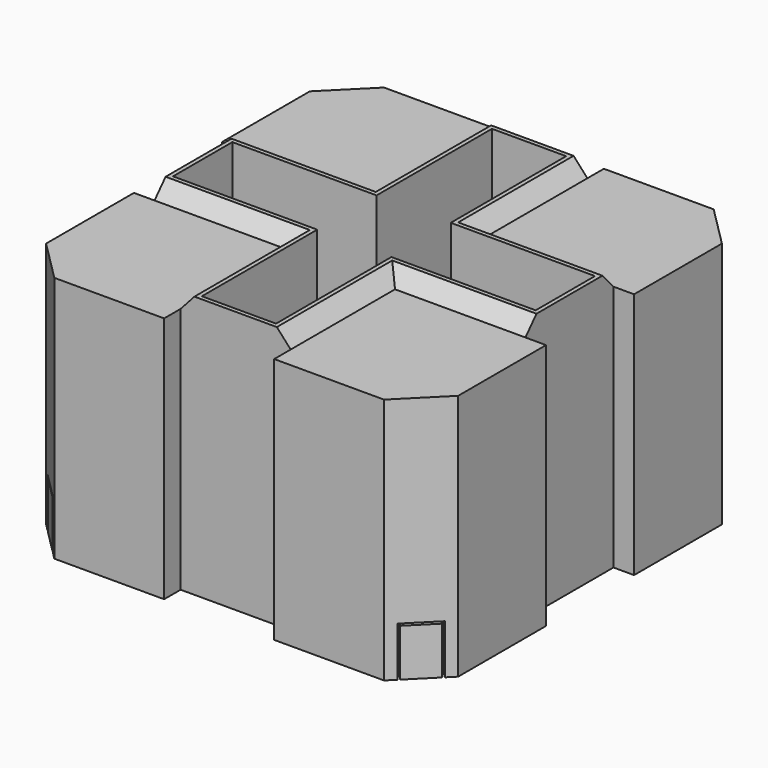
from build123d import *

# Parameters (mm, degrees)
F1_DEPTH  = 50
F3_DEPTH  = 50
F5_DEPTH  = 5
F7_DEPTH  = 5
F9_DEPTH  = 5
F11_DEPTH = 5
F12_SIZE  = 10
F13_W     = 9
F13_H     = 12
F14_DEPTH = 2
F15_W     = 8
F15_H     = 11.5
F16_DEPTH = 2
F17_W     = 9
F17_H     = 12
F18_DEPTH = 2
F20_W     = 9
F20_H     = 12
F21_DEPTH = 2
F22_W     = 8
F22_H     = 11.5
F23_DEPTH = 2
F24_W     = 9
F24_H     = 12
F25_DEPTH = 2
F26_W     = 8
F26_H     = 11.5
F27_DEPTH = 2
F19_W     = 8
F19_H     = 11.5
F28_DEPTH = 2
F30_DEPTH = 50


with BuildPart() as f1:
    # F0 (on Front) → F1 (new body, symmetric)
    with BuildSketch(Plane.XZ):
        Polygon((-50, -30), (50, -30), (50, 30), (13.3536681533, 30), (10, 33.708491596), (0, 33.708491596), (-10, 33.708491596), (-13.3536681533, 30), (-50, 30), align=None)
    extrude(amount=F1_DEPTH, both=True)

    # F2 (on Right) → F3 (join, symmetric)
    with BuildSketch(Plane.YZ):
        Polygon((10, 33.708491596), (0, 33.708491596), (-10, 33.708491596), (-13.3536681533, 30), (-50, 30), (-50, -30), (0, -30), (50, -30), (50, 30), (13.3536681533, 30), align=None)
    extrude(amount=F3_DEPTH, both=True)

    # F4 (on face) → F5 (cut)
    with BuildSketch(Plane(origin=(-50, 0, 0), x_dir=(0, -1, 0), z_dir=(-1, 0, 0))):
        Polygon((10, 33.708491596), (-10, 33.708491596), (-13.3536681533, 30), (-13.3536681533, -30), (13.3536681533, -30), (13.3536681533, 30), align=None)
    extrude(amount=-F5_DEPTH, mode=Mode.SUBTRACT)

    # F6 (on face) → F7 (cut)
    with BuildSketch(Plane.XZ.offset(50)):
        Polygon((-10, 33.708491596), (-13.3536681533, 30), (-13.3536681533, -30), (13.3536681533, -30), (13.3536681533, 30), (10, 33.708491596), align=None)
    extrude(amount=-F7_DEPTH, mode=Mode.SUBTRACT)

    # F8 (on face) → F9 (cut)
    with BuildSketch(Plane.YZ.offset(50)):
        Polygon((-10, 33.708491596), (-13.3536681533, 30), (-13.3536681533, -30), (13.3536681533, -30), (13.3536681533, 30), (10, 33.708491596), align=None)
    extrude(amount=-F9_DEPTH, mode=Mode.SUBTRACT)

    # F10 (on face) → F11 (cut)
    with BuildSketch(Plane(origin=(0, 50, 0), x_dir=(-1, 0, 0), z_dir=(0, 1, 0))):
        Polygon((-10, 33.708491596), (-13.3536681533, 30), (-13.3536681533, -30), (13.3536681533, -30), (13.3536681533, 30), (10, 33.708491596), align=None)
    extrude(amount=-F11_DEPTH, mode=Mode.SUBTRACT)

    # F12
    f12_edges = [f1.edges().sort_by_distance(p)[0] for p in [
        (50, -50, 0),
        (50, 50, 0),
        (-50, 50, 0),
        (-50, -50, 0),
    ]]
    chamfer(f12_edges, length=F12_SIZE)

    # F13 (on face) → F14 (cut)
    with BuildSketch(Plane(origin=(-45, 45, 0), x_dir=(-0.7071067812, -0.7071067812, 0), z_dir=(-0.7071067812, 0.7071067812, 0))):
        with Locations((0.0210678119, -24)):
            Rectangle(F13_W, F13_H)
    extrude(amount=-F14_DEPTH, mode=Mode.SUBTRACT)

    # F15 (on face) → F16 (join)
    with BuildSketch(Plane(origin=(-43.5857864376, 43.5857864376, 0), x_dir=(-0.7071067812, -0.7071067812, 0), z_dir=(-0.7071067812, 0.7071067812, 0))):
        with Locations((0.0210678119, -24.25)):
            Rectangle(F15_W, F15_H)
    extrude(amount=F16_DEPTH)

    # F17 (on face) → F18 (cut)
    with BuildSketch(Plane(origin=(-45, -45, 0), x_dir=(0.7071067812, -0.7071067812, 0), z_dir=(-0.7071067812, -0.7071067812, 0))):
        with Locations((0.0210678119, -24)):
            Rectangle(F17_W, F17_H)
    extrude(amount=-F18_DEPTH, mode=Mode.SUBTRACT)

    # F20 (on face) → F21 (cut)
    with BuildSketch(Plane(origin=(45, -45, 0), x_dir=(0.7071067812, 0.7071067812, 0), z_dir=(0.7071067812, -0.7071067812, 0))):
        with Locations((0.0210678119, -24)):
            Rectangle(F20_W, F20_H)
    extrude(amount=-F21_DEPTH, mode=Mode.SUBTRACT)

    # F22 (on face) → F23 (join)
    with BuildSketch(Plane(origin=(43.5857864376, -43.5857864376, 0), x_dir=(0.7071067812, 0.7071067812, 0), z_dir=(0.7071067812, -0.7071067812, 0))):
        with Locations((0.0210678119, -24.25)):
            Rectangle(F22_W, F22_H)
    extrude(amount=F23_DEPTH)

    # F24 (on face) → F25 (cut)
    with BuildSketch(Plane(origin=(45, 45, 0), x_dir=(-0.7071067812, 0.7071067812, 0), z_dir=(0.7071067812, 0.7071067812, 0))):
        with Locations((0.0210678119, -24)):
            Rectangle(F24_W, F24_H)
    extrude(amount=-F25_DEPTH, mode=Mode.SUBTRACT)

    # F26 (on face) → F27 (join)
    with BuildSketch(Plane(origin=(43.5857864376, 43.5857864376, 0), x_dir=(-0.7071067812, 0.7071067812, 0), z_dir=(0.7071067812, 0.7071067812, 0))):
        with Locations((0.0210678119, -24.25)):
            Rectangle(F26_W, F26_H)
    extrude(amount=F27_DEPTH)

    # F19 (on face) → F28 (join)
    with BuildSketch(Plane(origin=(-43.5857864376, -43.5857864376, 0), x_dir=(0.7071067812, -0.7071067812, 0), z_dir=(-0.7071067812, -0.7071067812, 0))):
        with Locations((0.0210678119, -24.25)):
            Rectangle(F19_W, F19_H)
    extrude(amount=F28_DEPTH)

    # F29 (on face) → F30 (cut)
    with BuildSketch(Plane.XY.offset(33.708491596)):
        Polygon((-44, 9), (-44, -9), (-9, -9), (-9, -44), (9, -44), (9, -9), (44, -9), (44, 9), (9, 9), (9, 44), (-9, 44), (-9, 9), align=None)
    extrude(amount=-F30_DEPTH, mode=Mode.SUBTRACT)


solid = f1.part
